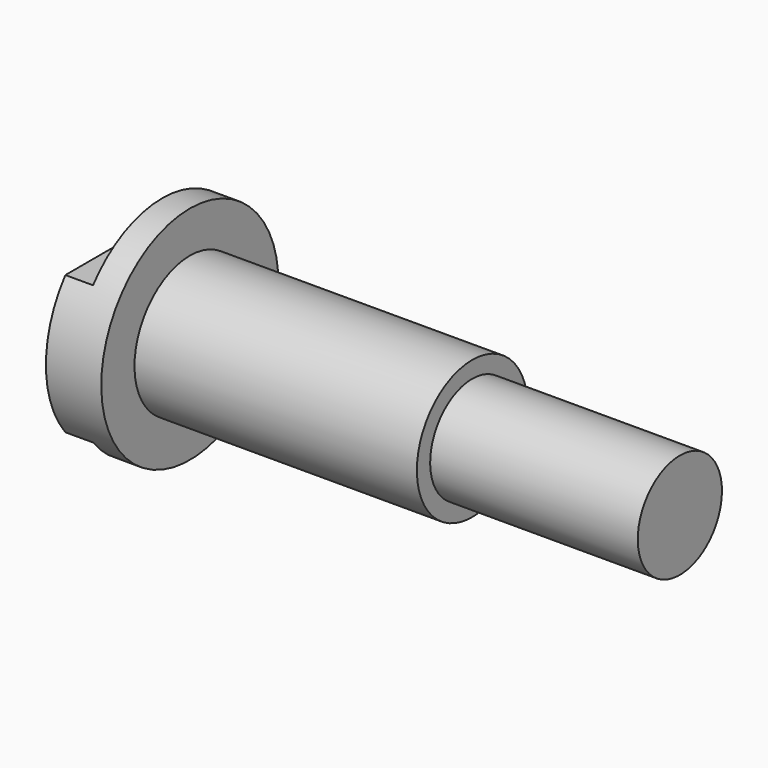
from build123d import *

# Parameters (mm, degrees)
F4_DEPTH = 3.81


with BuildPart() as f1:
    # F0 (on Front) → F1 (revolve)
    with BuildSketch(Plane.XZ):
        Polygon((0, 5.08), (0, 0), (25.019, 0), (25.019, 2.413), (15.494, 2.413), (15.494, 3.175), (2.54, 3.175), (2.54, 5.08), align=None)
    revolve(axis=Axis((12.5095, 0, 0), (1, 0, 0)))

    # F3 (on offset) → F4 (cut)
    with BuildSketch(Plane.YZ.offset(-2.54)):
        Polygon((-5.874861, 3.175), (0, 3.175), (5.874861, 3.175), (5.874861, 6.309091), (-5.874861, 6.309091), align=None)
        Polygon((5.874861, -3.175), (0, -3.175), (-5.874861, -3.175), (-5.874861, -6.309091), (5.874861, -6.309091), align=None)
    extrude(amount=F4_DEPTH, mode=Mode.SUBTRACT)


solid = f1.part
